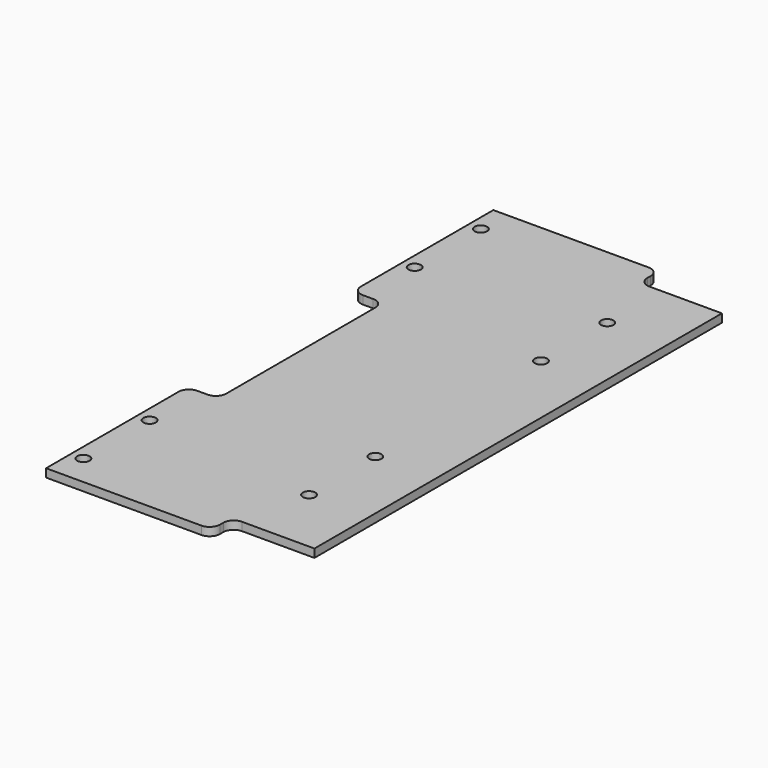
from build123d import *

# Parameters (mm, degrees)
F0_W      = 320
F0_H      = 420
F1_DEPTH  = 4
F3_DEPTH  = 4
F4_R      = 3
F5_DEPTH  = 25
F6_R      = 3
F7_DEPTH  = 25
F8_R      = 3
F9_DEPTH  = 25
F11_DEPTH = 25
F13_DEPTH = 25


with BuildPart() as f1:
    # F0 (on Top) → F1 (new body)
    with BuildSketch(Plane.XY):
        with Locations((160, 210)):
            Rectangle(F0_W, F0_H)
    extrude(amount=F1_DEPTH)

    # F2 (on face) → F3 (cut, through all)
    with BuildSketch(Plane.XY.offset(4)):
        Polygon((320, 420), (290, 420), (320, 360), align=None)
        Polygon((320, 60), (290, 0), (320, 0), align=None)
        with BuildLine():
            Line((113, 360), (213, 360))
            ThreePointArc((213, 360), (216.535534, 361.464466), (218, 365))
            Line((218, 365), (218, 403))
            ThreePointArc((218, 403), (216.535534, 406.535534), (213, 408))
            Line((213, 408), (113, 408))
            ThreePointArc((113, 408), (109.464466, 406.535534), (108, 403))
            Line((108, 403), (108, 365))
            ThreePointArc((108, 365), (109.464466, 361.464466), (113, 360))
        make_face()
        with BuildLine():
            Line((113, 12), (213, 12))
            ThreePointArc((213, 12), (216.535534, 13.464466), (218, 17))
            Line((218, 17), (218, 55))
            ThreePointArc((218, 55), (216.535534, 58.535534), (213, 60))
            Line((213, 60), (113, 60))
            ThreePointArc((113, 60), (109.464466, 58.535534), (108, 55))
            Line((108, 55), (108, 17))
            ThreePointArc((108, 17), (109.464466, 13.464466), (113, 12))
        make_face()
        Polygon((0, 420), (0, 210), (50, 420), align=None)
        Polygon((50, 0), (0, 210), (0, 0), align=None)
    extrude(amount=-F3_DEPTH, mode=Mode.SUBTRACT)

    # F4 (on face) → F5 (cut)
    with BuildSketch(Plane.XY.offset(4)):
        with Locations((67, 6)):
            Circle(F4_R)
        with Locations((97, 6)):
            Circle(F4_R)
        with Locations((127, 6)):
            Circle(F4_R)
        with Locations((157, 6)):
            Circle(F4_R)
        with Locations((187, 6)):
            Circle(F4_R)
        with Locations((217, 6)):
            Circle(F4_R)
        with Locations((247, 6)):
            Circle(F4_R)
        with Locations((277, 6)):
            Circle(F4_R)
        with Locations((64, 66)):
            Circle(F4_R)
        with Locations((94, 66)):
            Circle(F4_R)
        with Locations((124, 66)):
            Circle(F4_R)
        with Locations((220, 66)):
            Circle(F4_R)
        with Locations((250, 66)):
            Circle(F4_R)
        with Locations((280, 66)):
            Circle(F4_R)
        with Locations((310, 66)):
            Circle(F4_R)
        with Locations((67, 414)):
            Circle(F4_R)
        with Locations((64, 354)):
            Circle(F4_R)
        with Locations((97, 414)):
            Circle(F4_R)
        with Locations((310, 354)):
            Circle(F4_R)
        with Locations((277, 414)):
            Circle(F4_R)
        with Locations((94, 354)):
            Circle(F4_R)
        with Locations((220, 354)):
            Circle(F4_R)
        with Locations((280, 354)):
            Circle(F4_R)
        with Locations((124, 354)):
            Circle(F4_R)
        with Locations((127, 414)):
            Circle(F4_R)
        with Locations((250, 354)):
            Circle(F4_R)
        with Locations((157, 414)):
            Circle(F4_R)
        with Locations((187, 414)):
            Circle(F4_R)
        with Locations((217, 414)):
            Circle(F4_R)
        with Locations((247, 414)):
            Circle(F4_R)
    extrude(amount=-F5_DEPTH, mode=Mode.SUBTRACT)

    # F6 (on face) → F7 (cut)
    with BuildSketch(Plane.XY.offset(4)):
        with Locations((121, 90)):
            Circle(F6_R)
        with Locations((121, 130)):
            Circle(F6_R)
        with Locations((121, 170)):
            Circle(F6_R)
        with Locations((206, 90)):
            Circle(F6_R)
        with Locations((206, 130)):
            Circle(F6_R)
        with Locations((206, 170)):
            Circle(F6_R)
        with Locations((291, 80)):
            Circle(F6_R)
        with Locations((291, 120)):
            Circle(F6_R)
        with Locations((291, 160)):
            Circle(F6_R)
        with Locations((121, 330)):
            Circle(F6_R)
        with Locations((121, 290)):
            Circle(F6_R)
        with Locations((206, 330)):
            Circle(F6_R)
        with Locations((206, 250)):
            Circle(F6_R)
        with Locations((291, 340)):
            Circle(F6_R)
        with Locations((121, 250)):
            Circle(F6_R)
        with Locations((206, 290)):
            Circle(F6_R)
        with Locations((291, 300)):
            Circle(F6_R)
        with Locations((291, 260)):
            Circle(F6_R)
    extrude(amount=-F7_DEPTH, mode=Mode.SUBTRACT)

    # F8 (on face) → F9 (cut)
    with BuildSketch(Plane.XY.offset(4)):
        with Locations((15, 210)):
            Circle(F8_R)
        with Locations((45, 210)):
            Circle(F8_R)
    extrude(amount=-F9_DEPTH, mode=Mode.SUBTRACT)

    # F10 (on face) → F11 (intersect)
    with BuildSketch(Plane.XY.offset(4)):
        with BuildLine():
            Line((87, 350), (87, 355))
            ThreePointArc((87, 355), (85.535534, 358.535534), (82, 360))
            Line((82, 360), (57, 360))
            ThreePointArc((57, 360), (53.464466, 358.535534), (52, 355))
            Line((52, 355), (52, 340))
            ThreePointArc((52, 340), (50.535534, 336.464466), (47, 335))
            Line((47, 335), (0, 335))
            Line((0, 335), (0, 210))
            Line((0, 210), (0, 85))
            Line((0, 85), (47, 85))
            ThreePointArc((47, 85), (50.535534, 83.535534), (52, 80))
            Line((52, 80), (52, 65))
            ThreePointArc((52, 65), (53.464466, 61.464466), (57, 60))
            Line((57, 60), (82, 60))
            ThreePointArc((82, 60), (85.535534, 61.464466), (87, 65))
            Line((87, 65), (87, 70))
            ThreePointArc((87, 70), (88.464466, 73.535534), (92, 75))
            Line((92, 75), (275, 75))
            ThreePointArc((275, 75), (278.535534, 76.464466), (280, 80))
            Line((280, 80), (280, 82))
            ThreePointArc((280, 82), (281.464466, 85.535534), (285, 87))
            Line((285, 87), (320, 87))
            Line((320, 87), (320, 210))
            Line((320, 210), (320, 333))
            Line((320, 333), (285, 333))
            ThreePointArc((285, 333), (281.464466, 334.464466), (280, 338))
            Line((280, 338), (280, 340))
            ThreePointArc((280, 340), (278.535534, 343.535534), (275, 345))
            Line((275, 345), (92, 345))
            ThreePointArc((92, 345), (88.464466, 346.464466), (87, 350))
        make_face()
    extrude(amount=-F11_DEPTH, mode=Mode.INTERSECT)

    # F12 (on face) → F13 (intersect)
    with BuildSketch(Plane.XY.offset(4)):
        with BuildLine():
            Line((320, 75), (320, 345))
            Line((320, 345), (200, 345))
            Line((200, 345), (200, 265))
            ThreePointArc((200, 265), (201.464466, 261.464466), (205, 260))
            Line((205, 260), (210, 260))
            ThreePointArc((210, 260), (213.535534, 258.535534), (215, 255))
            Line((215, 255), (215, 165))
            ThreePointArc((215, 165), (213.535534, 161.464466), (210, 160))
            Line((210, 160), (205, 160))
            ThreePointArc((205, 160), (201.464466, 158.535534), (200, 155))
            Line((200, 155), (200, 75))
            Line((200, 75), (320, 75))
        make_face()
    extrude(amount=-F13_DEPTH, mode=Mode.INTERSECT)


solid = f1.part
